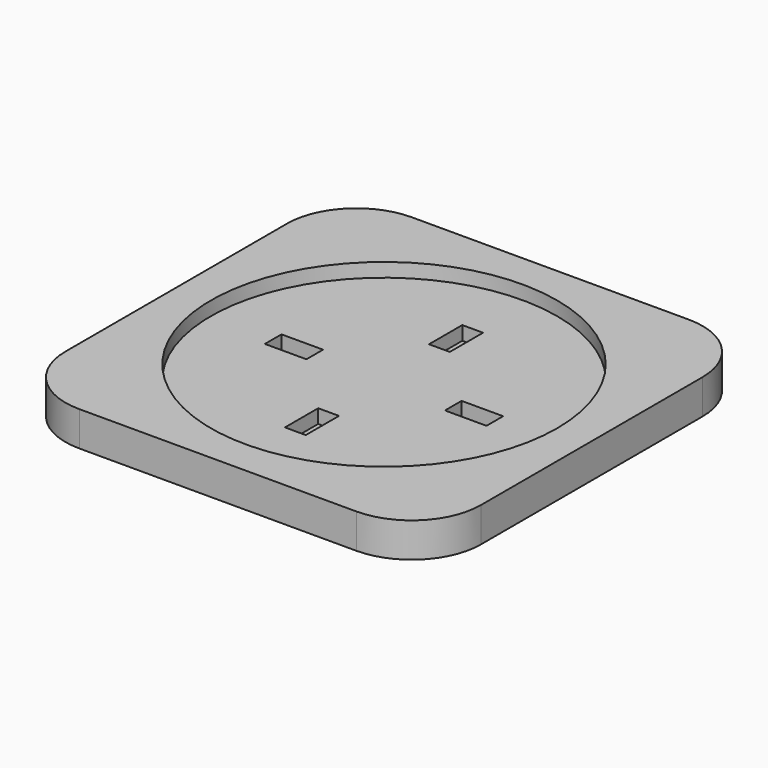
from build123d import *

# Parameters (mm, degrees)
F0_W     = 60
F0_H     = 60
F1_DEPTH = 5
F2_R     = 25
F3_DEPTH = 2
F4_W     = 6
F4_H     = 3
F4_W_2   = 3
F4_H_2   = 6
F5_DEPTH = 2
F6_R     = 10


with BuildPart() as f1:
    # F0 (on Top) → F1 (new body)
    with BuildSketch(Plane.XY):
        Rectangle(F0_W, F0_H)
    extrude(amount=F1_DEPTH)

    # F2 (on face) → F3 (cut)
    with BuildSketch(Plane.XY.offset(5)):
        Circle(F2_R)
    extrude(amount=-F3_DEPTH, mode=Mode.SUBTRACT)

    # F4 (on face) → F5 (cut)
    with BuildSketch(Plane.XY.offset(3)):
        with Locations((-13, 0)):
            Rectangle(F4_W, F4_H)
        with Locations((0, 13)):
            Rectangle(F4_W_2, F4_H_2)
        with Locations((13, 0)):
            Rectangle(F4_W, F4_H)
        with Locations((0, -13)):
            Rectangle(F4_W_2, F4_H_2)
    extrude(amount=-F5_DEPTH, mode=Mode.SUBTRACT)

    # F6
    f6_edges = [f1.edges().sort_by_distance(p)[0] for p in [
        (-30, -30, 2.5),
        (-30, 30, 2.5),
        (30, -30, 2.5),
        (30, 30, 2.5),
    ]]
    fillet(f6_edges, radius=F6_R)


solid = f1.part
